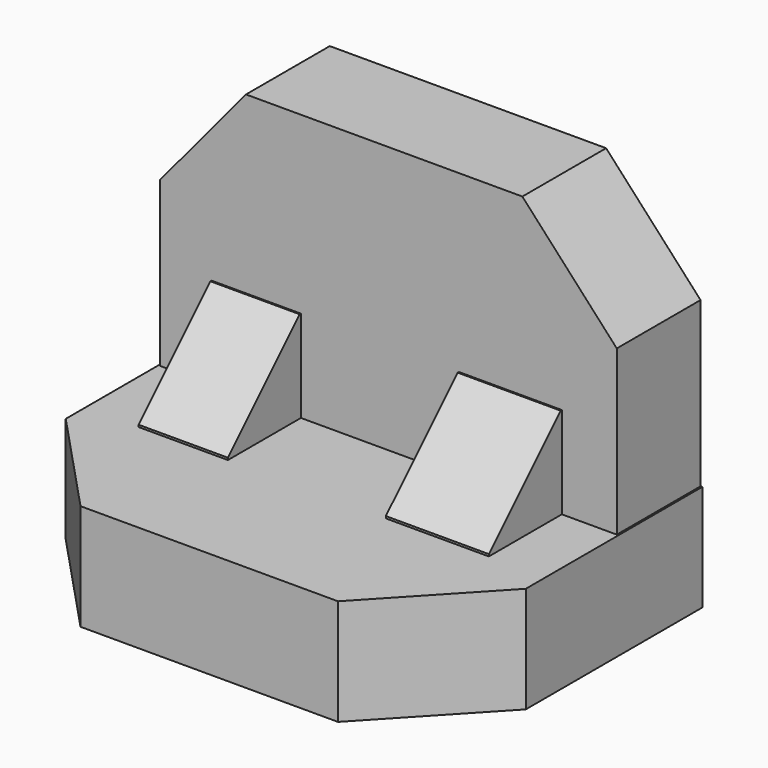
from build123d import *

# Parameters (mm, degrees)
F0_W     = 77.532463
F0_H     = 27.835902
F1_DEPTH = 17.78
F2_W     = 78.115414
F2_H     = 37.45459
F3_DEPTH = 18.034
F4_W     = 15.156722
F4_H     = 15.593934
F4_W_2   = 17.48852
F5_DEPTH = 15.494
F6_SIZE  = 15.24


with BuildPart() as f1:
    # F0 (on Front) → F1 (new body)
    with BuildSketch(Plane.XZ):
        with Locations((3.497705, 13.917951)):
            Rectangle(F0_W, F0_H)
        Polygon((-20.694755, 45.324426), (-35.268527, 27.835902), (42.263936, 27.835902), (26.232786, 45.324426), align=None)
    extrude(amount=F1_DEPTH)

    # F2 (on Top) → F3 (join)
    with BuildSketch(Plane.XY):
        with Locations((3.497703, -18.727295)):
            Rectangle(F2_W, F2_H)
        Polygon((25.35836, -55.817544), (42.55541, -37.45459), (-35.560004, -37.45459), (-18.362952, -55.817544), align=None)
    extrude(amount=-F3_DEPTH)

    # F4 (on face) → F5 (join)
    with BuildSketch(Plane.XZ.offset(17.78)):
        with Locations((-18.945902, 7.796967)):
            Rectangle(F4_W, F4_H)
        with Locations((24.192458, 7.796967)):
            Rectangle(F4_W_2, F4_H)
    extrude(amount=F5_DEPTH)

    # F6
    f6_edges = [f1.edges().sort_by_distance(p)[0] for p in [
        (-18.945902, -33.274, 15.593934),
        (24.192458, -33.274, 15.593934),
    ]]
    chamfer(f6_edges, length=F6_SIZE)


solid = f1.part
